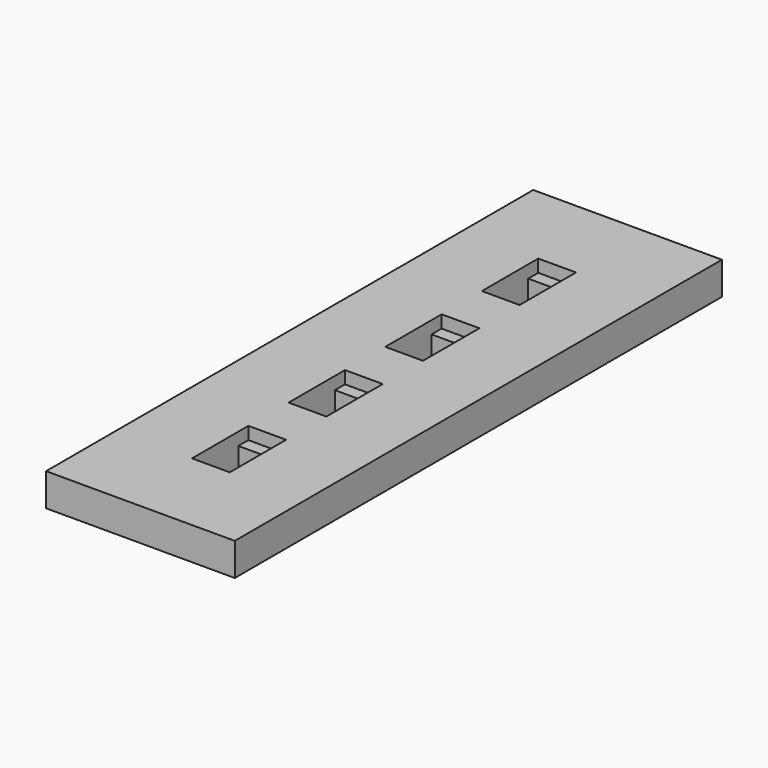
from build123d import *

# Parameters (mm, degrees)
F0_W     = 7.5
F0_H     = 24.2
F0_W_2   = 1.5
F0_H_2   = 1.8
F1_DEPTH = 0.8
F2_W     = 7.5
F2_H     = 24.2
F3_DEPTH = 0.5


with BuildPart() as f1:
    # F0 (on Top) → F1 (new body)
    with BuildSketch(Plane.XY):
        with Locations((-26.843911, 2.235197)):
            Rectangle(F0_W, F0_H)
        with Locations((-26.843911, -4.964803)):
            Rectangle(F0_W_2, F0_H_2, mode=Mode.SUBTRACT)
        with Locations((-26.843911, -0.164803)):
            Rectangle(F0_W_2, F0_H_2, mode=Mode.SUBTRACT)
        with Locations((-26.843911, 4.635197)):
            Rectangle(F0_W_2, F0_H_2, mode=Mode.SUBTRACT)
        with Locations((-26.843911, 9.435197)):
            Rectangle(F0_W_2, F0_H_2, mode=Mode.SUBTRACT)
    extrude(amount=F1_DEPTH)

    # F2 (on face) → F3 (join)
    with BuildSketch(Plane.XY.offset(0.8)):
        with Locations((-26.843911, 2.235197)):
            Rectangle(F2_W, F2_H)
        Polygon((-27.593911, -4.064803), (-27.593911, -3.564803), (-26.093911, -3.564803), (-26.093911, -4.064803), (-26.093911, -5.864803), (-26.093911, -6.364803), (-27.593911, -6.364803), (-27.593911, -5.864803), align=None, mode=Mode.SUBTRACT)
        Polygon((-27.593911, 0.735197), (-27.593911, 1.235197), (-26.093911, 1.235197), (-26.093911, 0.735197), (-26.093911, -1.064803), (-26.093911, -1.564803), (-27.593911, -1.564803), (-27.593911, -1.064803), align=None, mode=Mode.SUBTRACT)
        Polygon((-27.593911, 5.535197), (-27.593911, 6.035197), (-26.093911, 6.035197), (-26.093911, 5.535197), (-26.093911, 3.735197), (-26.093911, 3.235197), (-27.593911, 3.235197), (-27.593911, 3.735197), align=None, mode=Mode.SUBTRACT)
        Polygon((-26.093911, 8.035197), (-27.593911, 8.035197), (-27.593911, 8.535197), (-27.593911, 10.335197), (-27.593911, 10.835197), (-26.093911, 10.835197), (-26.093911, 10.335197), (-26.093911, 8.535197), align=None, mode=Mode.SUBTRACT)
    extrude(amount=F3_DEPTH)


solid = f1.part
